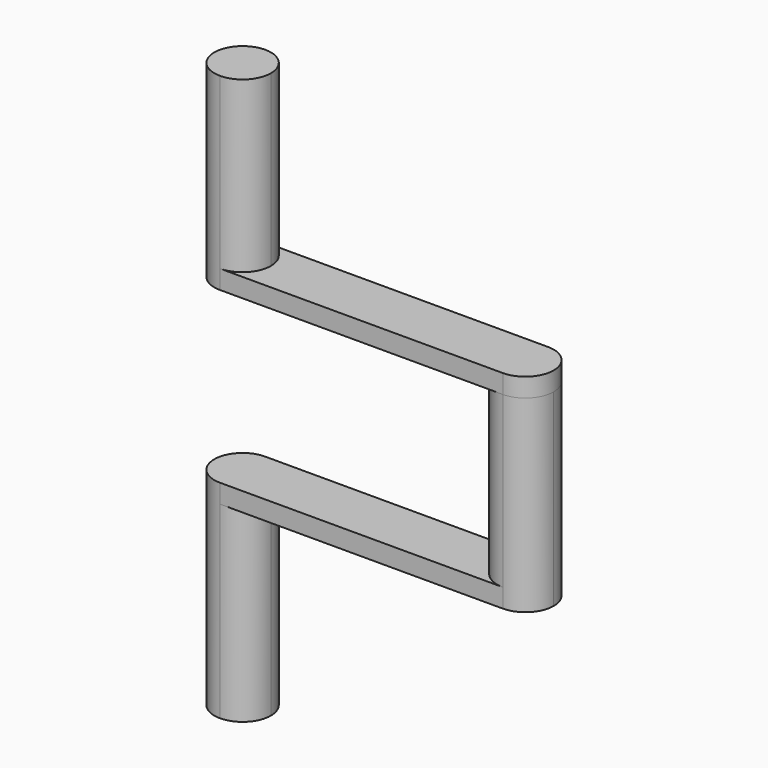
from build123d import *

# Parameters (mm, degrees)
F1_DEPTH  = 2.54
F2_DEPTH  = 25.4
F3_DEPTH  = 12.7
F4_DEPTH  = 2.54
F6_DEPTH  = 2.54
F7_DEPTH  = 25.4
F9_DEPTH  = 2.54
F10_DEPTH = 25.4


with BuildPart() as f1:
    # F0 (on Top) → F1 (new body)
    with BuildSketch(Plane.XY):
        with BuildLine():
            Line((-19.05, -3.81), (19.05, -3.81))
            ThreePointArc((19.05, -3.81), (15.24, 0), (19.05, 3.81))
            Line((19.05, 3.81), (-19.05, 3.81))
            ThreePointArc((-19.05, 3.81), (-16.355923, 2.694077), (-15.24, 0))
            ThreePointArc((-15.24, 0), (-16.355923, -2.694077), (-19.05, -3.81))
        make_face()
    extrude(amount=F1_DEPTH)

    # F0 (on Top) → F2 (join)
    with BuildSketch(Plane.XY):
        with BuildLine():
            ThreePointArc((19.05, 3.81), (15.24, 0), (19.05, -3.81))
            ThreePointArc((19.05, -3.81), (21.744077, -2.694077), (22.86, 0))
            ThreePointArc((22.86, 0), (21.744077, 2.694077), (19.05, 3.81))
        make_face()
    extrude(amount=F2_DEPTH)

    # F5 (on face) → F6 (join)
    with BuildSketch(Plane.XY.offset(25.4)):
        with BuildLine():
            Line((-19.05, -3.81), (19.05, -3.81))
            ThreePointArc((19.05, -3.81), (22.86, 0), (19.05, 3.81))
            Line((19.05, 3.81), (-19.05, 3.81))
            ThreePointArc((-19.05, 3.81), (-16.355923, 2.694077), (-15.24, 0))
            ThreePointArc((-15.24, 0), (-16.355923, -2.694077), (-19.05, -3.81))
        make_face()
        with BuildLine():
            Line((-19.05, -3.81), (19.05, -3.81))
            ThreePointArc((19.05, -3.81), (22.86, 0), (19.05, 3.81))
            Line((19.05, 3.81), (-19.05, 3.81))
            ThreePointArc((-19.05, 3.81), (-16.355923, 2.694077), (-15.24, 0))
            ThreePointArc((-15.24, 0), (-16.355923, -2.694077), (-19.05, -3.81))
        make_face()
    extrude(amount=F6_DEPTH)

    # F5 (on face) → F7 (join)
    with BuildSketch(Plane.XY.offset(25.4)):
        with BuildLine():
            ThreePointArc((-19.05, 3.81), (-22.86, 0), (-19.05, -3.81))
            ThreePointArc((-19.05, -3.81), (-16.355923, -2.694077), (-15.24, 0))
            ThreePointArc((-15.24, 0), (-16.355923, 2.694077), (-19.05, 3.81))
        make_face()
    extrude(amount=F7_DEPTH)

    # F0 (on Top) → F9 (join)
    with BuildSketch(Plane.XY):
        with BuildLine():
            ThreePointArc((-19.05, 3.81), (-22.86, 0), (-19.05, -3.81))
            ThreePointArc((-19.05, -3.81), (-16.355923, -2.694077), (-15.24, 0))
            ThreePointArc((-15.24, 0), (-16.355923, 2.694077), (-19.05, 3.81))
        make_face()
    extrude(amount=F9_DEPTH)

    # F0 (on Top) → F10 (join)
    with BuildSketch(Plane.XY):
        with BuildLine():
            ThreePointArc((-19.05, 3.81), (-22.86, 0), (-19.05, -3.81))
            ThreePointArc((-19.05, -3.81), (-16.355923, -2.694077), (-15.24, 0))
            ThreePointArc((-15.24, 0), (-16.355923, 2.694077), (-19.05, 3.81))
        make_face()
    extrude(amount=-F10_DEPTH)


with BuildPart() as f3:
    # F0 (on Top) → F3 (new body)
    with BuildSketch(Plane.XY):
        with BuildLine():
            ThreePointArc((-19.05, 3.81), (-22.86, 0), (-19.05, -3.81))
            ThreePointArc((-19.05, -3.81), (-16.355923, -2.694077), (-15.24, 0))
            ThreePointArc((-15.24, 0), (-16.355923, 2.694077), (-19.05, 3.81))
        make_face()
    extrude(amount=-F3_DEPTH)


with BuildPart() as f4:
    # F0 (on Top) → F4 (new body)
    with BuildSketch(Plane.XY):
        with BuildLine():
            ThreePointArc((-19.05, 3.81), (-22.86, 0), (-19.05, -3.81))
            ThreePointArc((-19.05, -3.81), (-16.355923, -2.694077), (-15.24, 0))
            ThreePointArc((-15.24, 0), (-16.355923, 2.694077), (-19.05, 3.81))
        make_face()
    extrude(amount=F4_DEPTH)


solid = f1.part
